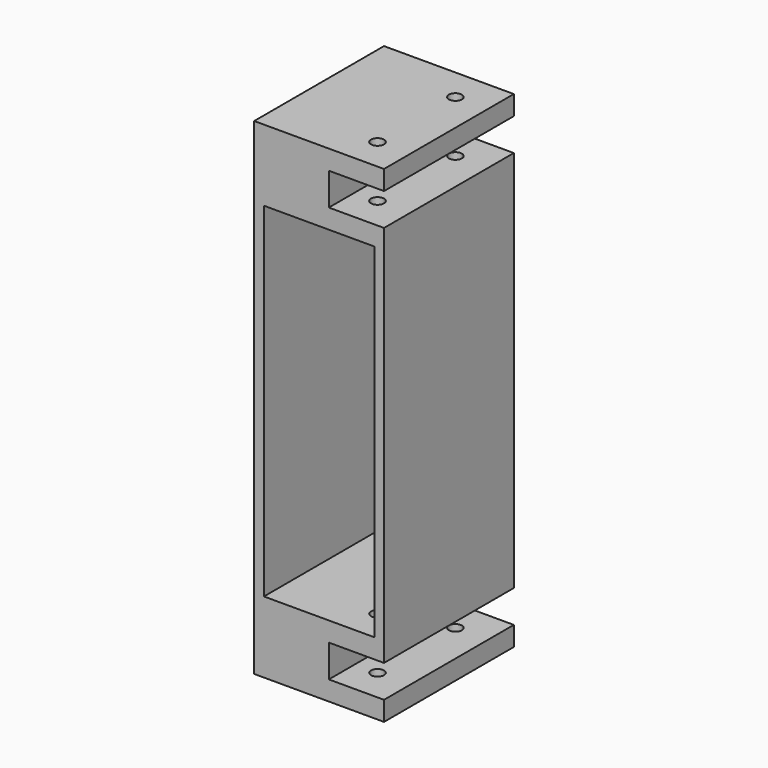
from build123d import *

# Parameters (mm, degrees)
F0_W     = 170
F0_H     = 530
F1_DEPTH = 250
F2_DEPTH = 15
F3_R     = 10
F4_DEPTH = 750


with BuildPart() as f1:
    # F0 (on Front) → F1 (new body)
    with BuildSketch(Plane.XZ):
        Polygon((100, 345), (100, 375), (-100, 375), (-100, -375), (100, -375), (100, -345), (15, -345), (15, -295), (100, -295), (100, 295), (15, 295), (15, 345), align=None)
        Rectangle(F0_W, F0_H, mode=Mode.SUBTRACT)
    extrude(amount=F1_DEPTH)

    # F0 (on Front) → F2 (join)
    with BuildSketch(Plane.XZ):
        Rectangle(F0_W, F0_H)
    extrude(amount=F2_DEPTH)

    # F3 (on face) → F4 (cut)
    with BuildSketch(Plane(origin=(0, 0, -375), x_dir=(1, 0, 0), z_dir=(0, 0, -1))):
        with Locations((50, 200)):
            Circle(F3_R)
        with Locations((50, 50)):
            Circle(F3_R)
    extrude(amount=-F4_DEPTH, mode=Mode.SUBTRACT)


solid = f1.part
